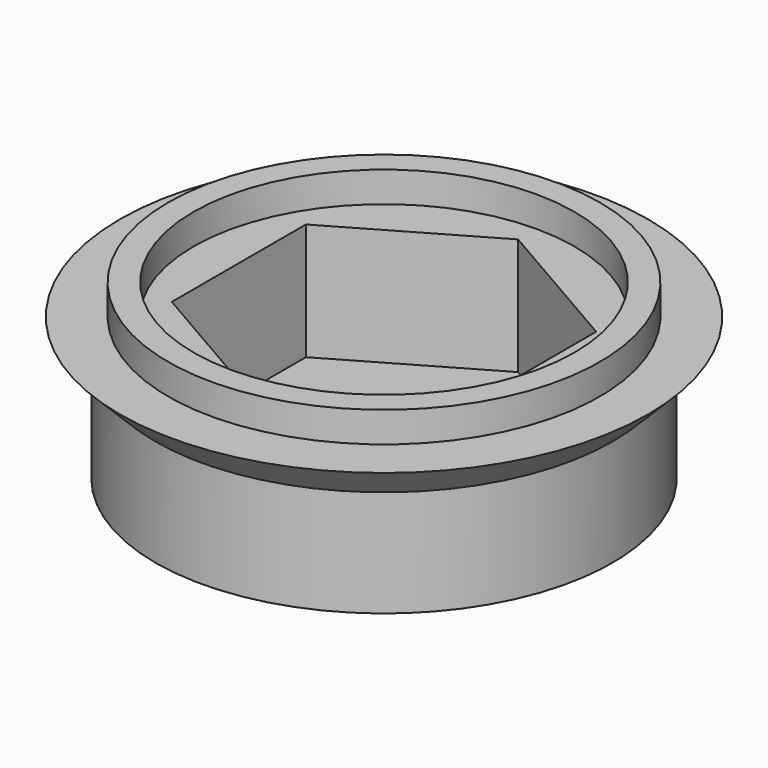
from build123d import *

# Parameters (mm, degrees)
SKETCH002_R             = 9
SKETCH002_R_2           = 3.3
EXTRUDE001_DEPTH        = 1
SKETCH003_R             = 8.5
SKETCH003_R_2           = 7.5
EXTRUDE003_DEPTH        = 1.2
SKETCH001_R             = 9
EXTRUDE002_DEPTH        = 4.6
BODY003_PLACEMENT_ANGLE = 180


with BuildPart() as extrude001:
    # Sketch002 → Extrude001 (new body)
    with BuildSketch(Plane.XY):
        Circle(SKETCH002_R)
        Circle(SKETCH002_R_2, mode=Mode.SUBTRACT)
    extrude(amount=EXTRUDE001_DEPTH)


with BuildPart() as extrude001_1:
    # Extrude001 placement: moved
    add(extrude001.part.moved(Location((0, 0, 4.6))))


with BuildPart() as extrude003:
    # Sketch003 → Extrude003 (new body)
    with BuildSketch(Plane.XY):
        Circle(SKETCH003_R)
        Circle(SKETCH003_R_2, mode=Mode.SUBTRACT)
    extrude(amount=-EXTRUDE003_DEPTH)


with BuildPart() as revolve_body:
    # Sketch007 → Revolve (revolve)
    with BuildSketch(Plane.XZ):
        Polygon((-9, 1.4), (-9, 0), (-10.4, 0), align=None)
    revolve(axis=Axis((0, 0, 0), (0, 0, 1)))


with BuildPart() as body003:
    # Sketch001 → Extrude002 (new body)
    with BuildSketch(Plane.XY):
        Circle(SKETCH001_R)
        Polygon((5.715768, 3.3), (0, 6.6), (-5.715768, 3.3), (-5.715768, -3.3), (0, -6.6), (5.715768, -3.3), align=None, mode=Mode.SUBTRACT)
    extrude(amount=EXTRUDE002_DEPTH)

    # Fusion: union Extrude001, Extrude003, Revolve body
    add(extrude001_1.part)
    add(extrude003.part)
    add(revolve_body.part)


with BuildPart() as body003_1:
    # Body003 placement: moved
    add(body003.part.moved(Location((0, 0, 12))).rotate(Axis((0, 0, 12), (0, 1, 0)), BODY003_PLACEMENT_ANGLE))


solid = body003_1.part
